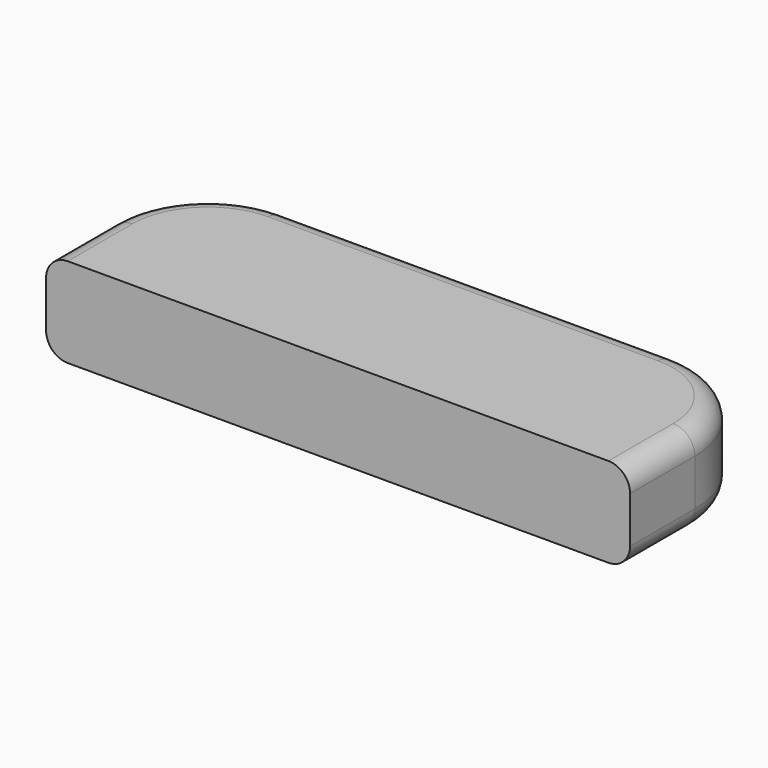
from build123d import *

# Parameters (mm, degrees)
F1_DEPTH = 15.24
F2_R     = 3.679261
F3_W     = 15.525822
F3_H     = 4.234315
F4_DEPTH = 25.4
F5_R     = 14.103836


with BuildPart() as f1:
    # F0 (on Top) → F1 (new body)
    with BuildSketch(Plane.XY):
        with BuildLine():
            Line((36.309373, -18.436444), (-29.949842, -18.436444))
            ThreePointArc((-29.949842, -18.436444), (-41.624175, -23.272111), (-46.459842, -34.946444))
            Line((-46.459842, -34.946444), (-46.459842, -48.711527))
            Line((-46.459842, -48.711527), (52.819373, -48.711527))
            Line((52.819373, -48.711527), (52.819373, -34.946444))
            ThreePointArc((52.819373, -34.946444), (47.983706, -23.272111), (36.309373, -18.436444))
        make_face()
    extrude(amount=F1_DEPTH)

    # F2
    f2_edges = [f1.edges().sort_by_distance(p)[0] for p in [
        (3.179765, -18.436444, 15.24),
        (3.179765, -18.436444, 0),
    ]]
    fillet(f2_edges, radius=F2_R)


with BuildPart() as f4:
    # F3 (on face) → F4 (new body)
    with BuildSketch(Plane(origin=(-46.459842, 0, 0), x_dir=(0, -1, 0), z_dir=(-1, 0, 0))):
        with Locations((26.170159, 7.634432)):
            Rectangle(F3_W, F3_H)
    extrude(amount=-F4_DEPTH)

    # F5
    f5_edges = [f4.edges().sort_by_distance(p)[0] for p in [
        (-46.459842, -18.407248, 7.634432),
    ]]
    fillet(f5_edges, radius=F5_R)


solid = Compound([f1.part, f4.part])
